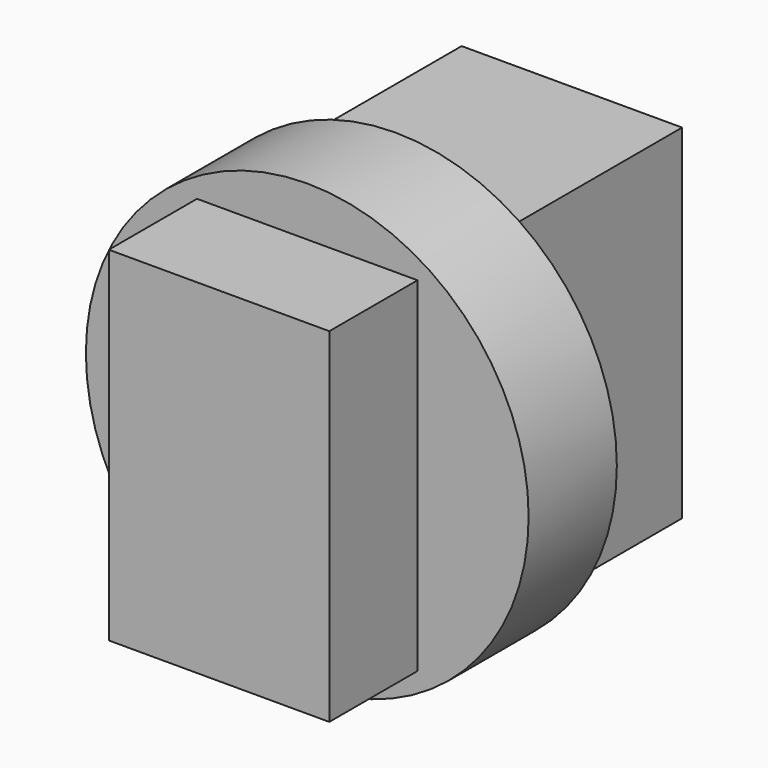
from build123d import *

# Parameters (mm, degrees)
F0_W     = 50
F0_H     = 100
F1_DEPTH = 39
F2_R     = 50.198384
F3_DEPTH = 25


with BuildPart() as f1:
    # F0 (on Top) → F1 (new body, symmetric)
    with BuildSketch(Plane.XY):
        Rectangle(F0_W, F0_H)
    extrude(amount=F1_DEPTH, both=True)

    # F2 (on Front) → F3 (join)
    with BuildSketch(Plane.XZ):
        Circle(F2_R)
    extrude(amount=F3_DEPTH)


solid = f1.part
